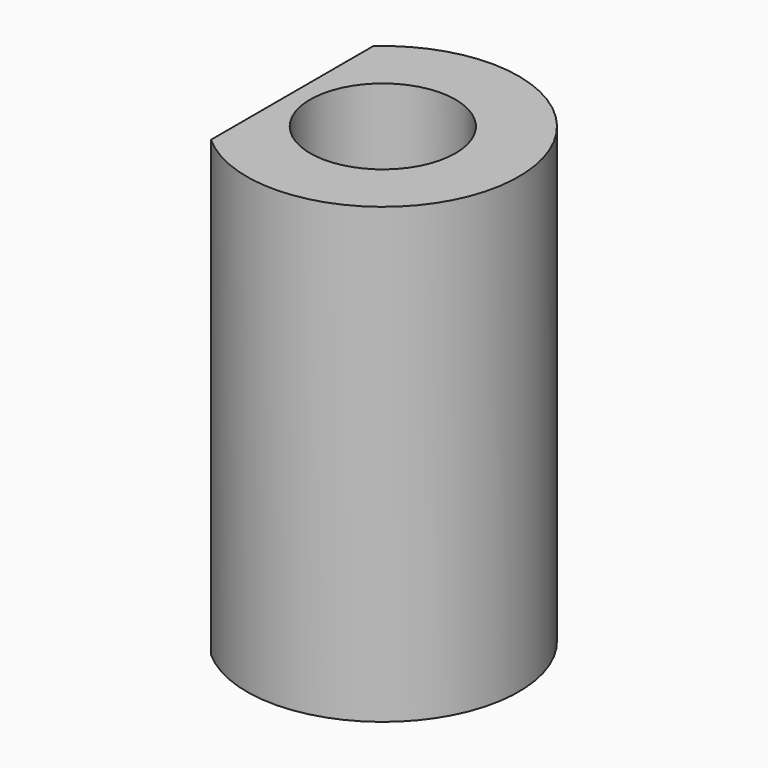
from build123d import *

# Parameters (mm, degrees)
F0_R     = 38.1
F1_DEPTH = 127
F2_R     = 20.3692597416
F3_DEPTH = 127.001
F5_DEPTH = 127.001


with BuildPart() as f1:
    # F0 (on Top) → F1 (new body)
    with BuildSketch(Plane.XY):
        Circle(F0_R)
    extrude(amount=F1_DEPTH)

    # F2 (on face) → F3 (cut, through all)
    with BuildSketch(Plane.XY.offset(127)):
        Circle(F2_R)
    extrude(amount=-F3_DEPTH, mode=Mode.SUBTRACT)

    # F4 (on face) → F5 (cut, through all)
    with BuildSketch(Plane.XY.offset(127)):
        with BuildLine():
            ThreePointArc((-25.4, 28.3980633142), (-38.1, 0), (-25.4, -28.3980633142))
            Line((-25.4, -28.3980633142), (-25.4, 28.3980633142))
        make_face()
    extrude(amount=-F5_DEPTH, mode=Mode.SUBTRACT)


solid = f1.part
